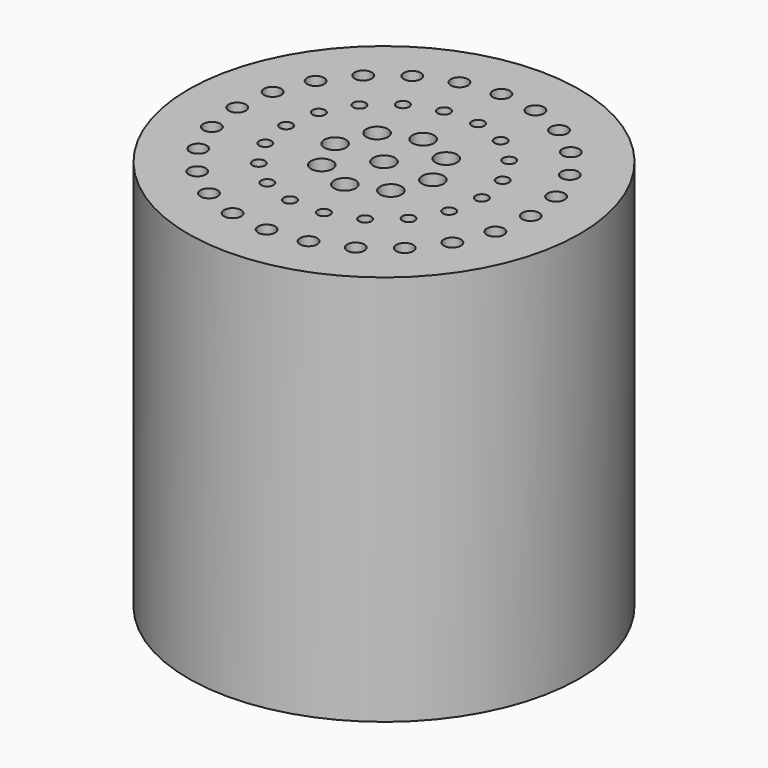
from build123d import *

# Parameters (mm, degrees)
F0_R     = 63.5
F1_DEPTH = 63.5
F2_R     = 2.776459
F2_R_2   = 2.032
F2_R_3   = 3.5052
F3_DEPTH = 101.6


with BuildPart() as f1:
    # F0 (on Top) → F1 (new body, symmetric)
    with BuildSketch(Plane.XY):
        Circle(F0_R)
    extrude(amount=F1_DEPTH, both=True)

    # F2 (on face) → F3 (cut)
    with BuildSketch(Plane.XY.offset(63.5)):
        with BuildLine():
            ThreePointArc((-3.5052, 0), (0, -3.5052), (3.5052, 0))
            ThreePointArc((3.5052, 0), (0, 3.5052), (-3.5052, 0))
        make_face()
        with Locations((-47.625, 0)):
            Circle(F2_R)
        with BuildLine():
            ThreePointArc((-33.782, 0), (-31.75, -2.032), (-29.718, 0))
            Line((-29.718, 0), (-31.75, 0))
            Line((-31.75, 0), (-33.782, 0))
        make_face()
        with BuildLine():
            Line((-31.75, 0), (-29.718, 0))
            ThreePointArc((-29.718, 0), (-31.75, 2.032), (-33.782, 0))
            Line((-33.782, 0), (-31.75, 0))
        make_face()
        with BuildLine():
            ThreePointArc((-19.3802, 0), (-15.875, -3.5052), (-12.3698, 0))
            Line((-12.3698, 0), (-15.875, 0))
            Line((-15.875, 0), (-19.3802, 0))
        make_face()
        with BuildLine():
            Line((-15.875, 0), (-12.3698, 0))
            ThreePointArc((-12.3698, 0), (-15.875, 3.5052), (-19.3802, 0))
            Line((-19.3802, 0), (-15.875, 0))
        make_face()
        with Locations((-46.002217, -12.326257)):
            Circle(F2_R)
        with Locations((-41.24446, -23.8125)):
            Circle(F2_R)
        with Locations((-33.67596, -33.67596)):
            Circle(F2_R)
        with Locations((-23.8125, -41.24446)):
            Circle(F2_R)
        with Locations((-12.326257, -46.002217)):
            Circle(F2_R)
        with Locations((0, -47.625)):
            Circle(F2_R)
        with Locations((12.326257, -46.002217)):
            Circle(F2_R)
        with Locations((23.8125, -41.24446)):
            Circle(F2_R)
        with Locations((33.67596, -33.67596)):
            Circle(F2_R)
        with Locations((41.24446, -23.8125)):
            Circle(F2_R)
        with Locations((46.002217, -12.326257)):
            Circle(F2_R)
        with Locations((47.625, 0)):
            Circle(F2_R)
        with Locations((46.002217, 12.326257)):
            Circle(F2_R)
        with Locations((41.24446, 23.8125)):
            Circle(F2_R)
        with Locations((33.67596, 33.67596)):
            Circle(F2_R)
        with Locations((23.8125, 41.24446)):
            Circle(F2_R)
        with Locations((12.326257, 46.002217)):
            Circle(F2_R)
        with Locations((0, 47.625)):
            Circle(F2_R)
        with Locations((-12.326257, 46.002217)):
            Circle(F2_R)
        with Locations((-23.8125, 41.24446)):
            Circle(F2_R)
        with Locations((-33.67596, 33.67596)):
            Circle(F2_R)
        with Locations((-41.24446, 23.8125)):
            Circle(F2_R)
        with Locations((-46.002217, 12.326257)):
            Circle(F2_R)
        with Locations((-29.835241, -10.85914)):
            Circle(F2_R_2)
        with Locations((-24.321911, -20.408507)):
            Circle(F2_R_2)
        with Locations((-15.875, -27.496307)):
            Circle(F2_R_2)
        with Locations((-5.51333, -31.267646)):
            Circle(F2_R_2)
        with Locations((5.51333, -31.267646)):
            Circle(F2_R_2)
        with Locations((15.875, -27.496307)):
            Circle(F2_R_2)
        with Locations((24.321911, -20.408507)):
            Circle(F2_R_2)
        with Locations((29.835241, -10.85914)):
            Circle(F2_R_2)
        with Locations((31.75, 0)):
            Circle(F2_R_2)
        with Locations((29.835241, 10.85914)):
            Circle(F2_R_2)
        with Locations((24.321911, 20.408507)):
            Circle(F2_R_2)
        with Locations((15.875, 27.496307)):
            Circle(F2_R_2)
        with Locations((5.51333, 31.267646)):
            Circle(F2_R_2)
        with Locations((-5.51333, 31.267646)):
            Circle(F2_R_2)
        with Locations((-15.875, 27.496307)):
            Circle(F2_R_2)
        with Locations((-24.321911, 20.408507)):
            Circle(F2_R_2)
        with Locations((-29.835241, 10.85914)):
            Circle(F2_R_2)
        with Locations((-11.22532, -11.22532)):
            Circle(F2_R_3)
        with Locations((0, -15.875)):
            Circle(F2_R_3)
        with Locations((11.22532, -11.22532)):
            Circle(F2_R_3)
        with Locations((15.875, 0)):
            Circle(F2_R_3)
        with Locations((11.22532, 11.22532)):
            Circle(F2_R_3)
        with Locations((0, 15.875)):
            Circle(F2_R_3)
        with Locations((-11.22532, 11.22532)):
            Circle(F2_R_3)
    extrude(amount=-F3_DEPTH, mode=Mode.SUBTRACT)


solid = f1.part
